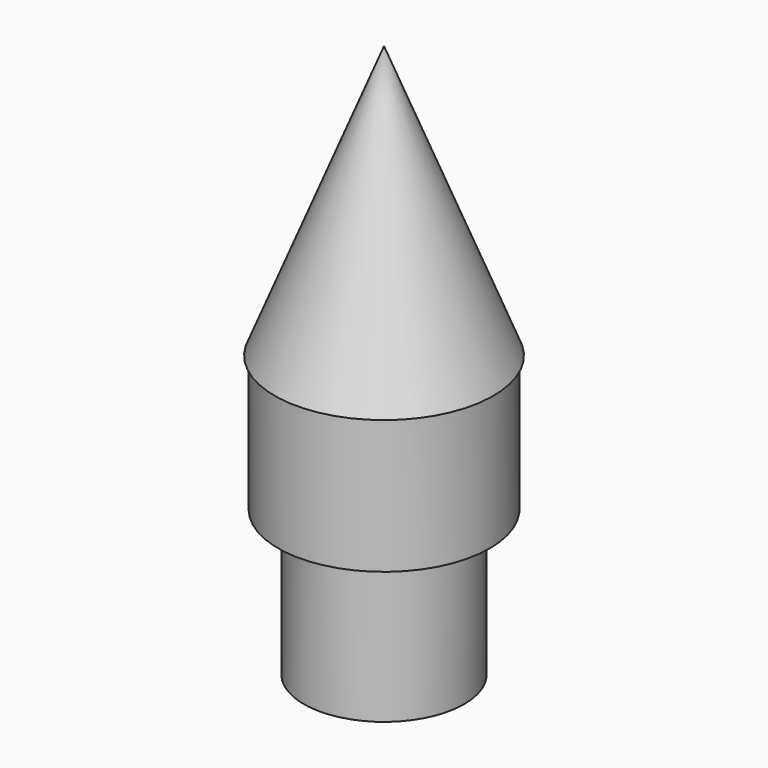
from build123d import *

# Parameters (mm, degrees)
F0_R     = 19.35
F1_DEPTH = 25
F4_R     = 14.671032
F4_R_2   = 10.237718
F5_DEPTH = 26.6


with BuildPart() as f1:
    # F0 (on Top) → F1 (new body)
    with BuildSketch(Plane.XY):
        Circle(F0_R)
    extrude(amount=F1_DEPTH)

    # F2 (on Right) → F3 (revolve)
    with BuildSketch(Plane.YZ):
        Polygon((0, 24.767736), (19.990396, 24.767736), (0, 74.592263), align=None)
    revolve(axis=Axis((0, 0, 4.910189), (0, 0, 1)))

    # F4 (on Top) → F5 (join)
    with BuildSketch(Plane.XY):
        Circle(F4_R)
        Circle(F4_R_2, mode=Mode.SUBTRACT)
    extrude(amount=-F5_DEPTH)


solid = f1.part
